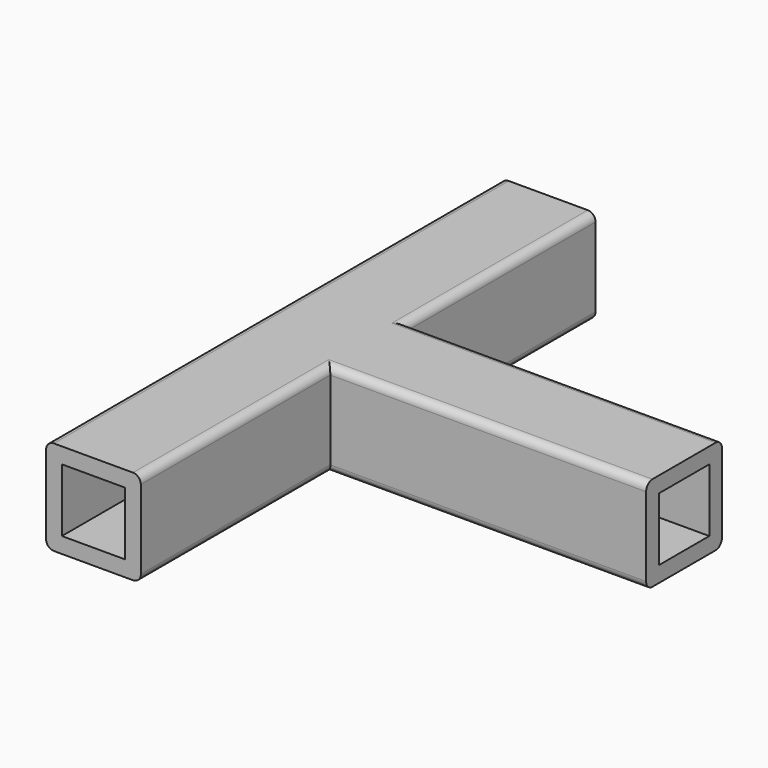
from build123d import *

# Parameters (mm, degrees)
F0_W     = 19.05
F0_H     = 19.05
F0_W_2   = 12.7
F0_H_2   = 12.7
F1_DEPTH = 114.3
F2_W     = 19.05
F2_H     = 19.05
F2_W_2   = 12.7
F2_H_2   = 12.7
F3_DEPTH = 63.5
F4_R     = 1.5875


with BuildPart() as f1:
    # F0 (on Front) → F1 (new body)
    with BuildSketch(Plane.XZ):
        with Locations((-80.5832530618, 119.2464818001)):
            Rectangle(F0_W, F0_H)
        with Locations((-80.5832530618, 119.2464818001)):
            Rectangle(F0_W_2, F0_H_2, mode=Mode.SUBTRACT)
    extrude(amount=-F1_DEPTH)

    # F2 (on face) → F3 (join)
    with BuildSketch(Plane.YZ.offset(-71.0582530618)):
        with Locations((57.15, 119.2464818001)):
            Rectangle(F2_W, F2_H)
        with Locations((57.15, 119.2464818001)):
            Rectangle(F2_W_2, F2_H_2, mode=Mode.SUBTRACT)
    extrude(amount=F3_DEPTH)

    # F4
    f4_edges = [f1.edges().sort_by_distance(p)[0] for p in [
        (-71.058253, 23.8125, 128.771482),
        (-39.308253, 47.625, 128.771482),
        (-90.108253, 57.15, 128.771482),
        (-71.058253, 23.8125, 109.721482),
        (-39.308253, 47.625, 109.721482),
        (-71.058253, 90.4875, 128.771482),
        (-71.058253, 90.4875, 109.721482),
        (-39.308253, 66.675, 109.721482),
        (-39.308253, 66.675, 128.771482),
        (-90.108253, 57.15, 109.721482),
    ]]
    fillet(f4_edges, radius=F4_R)


solid = f1.part
